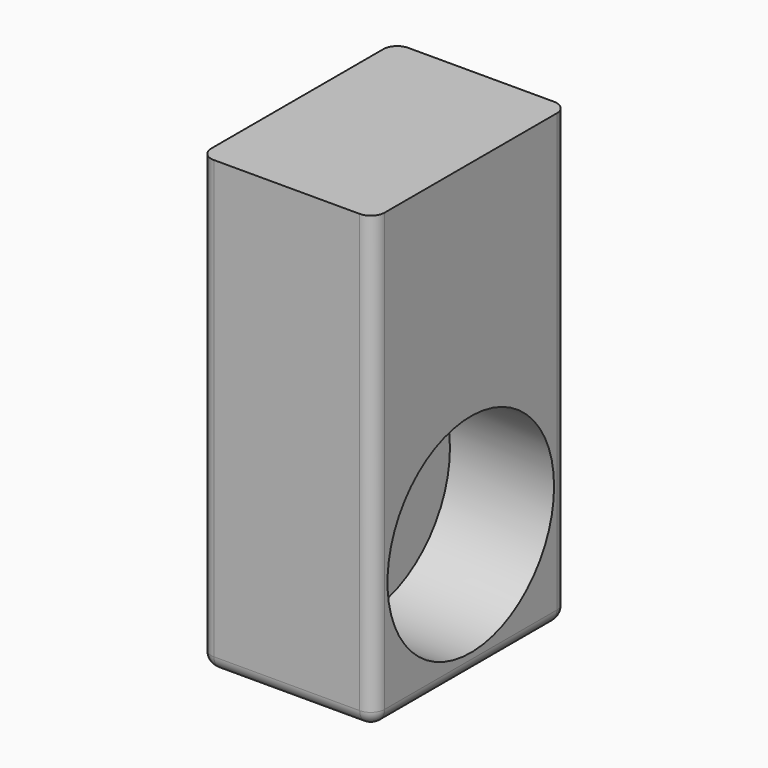
from build123d import *

# Parameters (mm, degrees)
F0_R     = 19.05
F1_DEPTH = 12.7
F0_W     = 44.45
F0_H     = 82.55
F2_DEPTH = 31.75
F3_R     = 2.54


with BuildPart() as f1:
    # F0 (on Right) → F1 (new body)
    with BuildSketch(Plane.YZ):
        with Locations((0, -18.576264)):
            Circle(F0_R)
    extrude(amount=F1_DEPTH)

    # F0 (on Right) → F2 (join)
    with BuildSketch(Plane.YZ):
        Rectangle(F0_W, F0_H)
        with Locations((0, -18.576264)):
            Circle(F0_R, mode=Mode.SUBTRACT)
    extrude(amount=F2_DEPTH)

    # F3
    f3_edges = [f1.edges().sort_by_distance(p)[0] for p in [
        (15.875, -22.225, -41.275),
        (15.875, 22.225, -41.275),
        (0, 0, -41.275),
        (31.75, 0, -41.275),
        (31.75, 22.225, 0),
        (0, 22.225, 0),
        (0, -22.225, 0),
        (31.75, -22.225, 0),
    ]]
    fillet(f3_edges, radius=F3_R)


solid = f1.part
